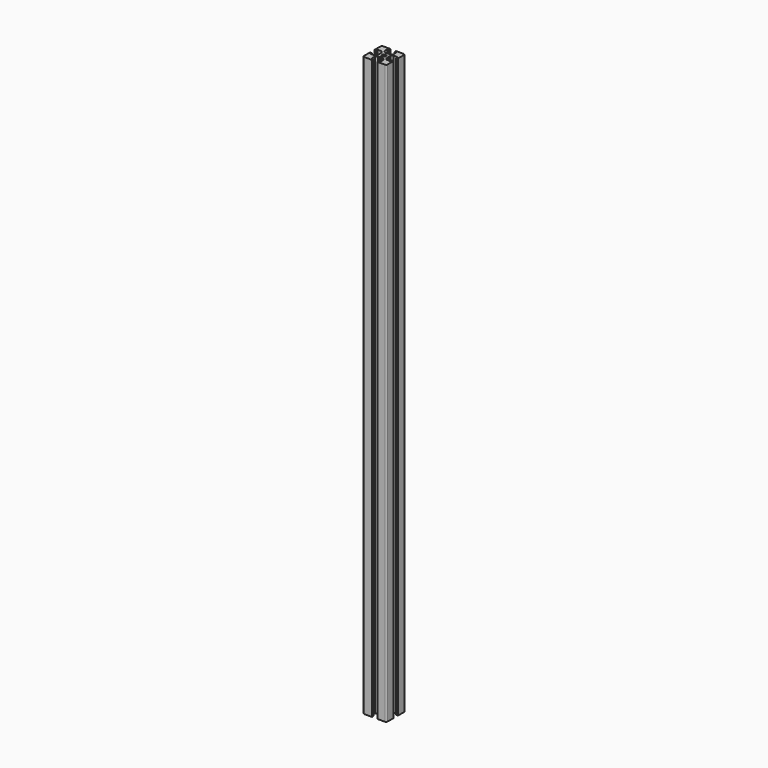
from build123d import *

# Parameters (mm, degrees)
F0_R     = 1.25
F1_DEPTH = 185


with BuildPart() as f1:
    # F0 (on Top) → F1 (new body, symmetric)
    with BuildSketch(Plane.XY):
        with BuildLine():
            Line((1.7, -7.5), (6.5, -7.5))
            ThreePointArc((6.5, -7.5), (7.207107, -7.207107), (7.5, -6.5))
            Line((7.5, -6.5), (7.5, -1.7))
            Line((7.5, -1.7), (6.4, -1.7))
            Line((6.4, -1.7), (6.4, -2.85))
            Line((6.4, -2.85), (3.8, -2.85))
            Line((3.8, -2.85), (2.8, -1.7))
            Line((2.8, -1.7), (2.8, -0.519615))
            Line((2.8, -0.519615), (2.5, 0))
            Line((2.5, 0), (2.8, 0.519615))
            Line((2.8, 0.519615), (2.8, 1.7))
            Line((2.8, 1.7), (3.8, 2.85))
            Line((3.8, 2.85), (6.4, 2.85))
            Line((6.4, 2.85), (6.4, 1.7))
            Line((6.4, 1.7), (7.5, 1.7))
            Line((7.5, 1.7), (7.5, 6.5))
            ThreePointArc((7.5, 6.5), (7.207107, 7.207107), (6.5, 7.5))
            Line((6.5, 7.5), (1.7, 7.5))
            Line((1.7, 7.5), (1.7, 6.4))
            Line((1.7, 6.4), (2.85, 6.4))
            Line((2.85, 6.4), (2.85, 3.8))
            Line((2.85, 3.8), (1.7, 2.8))
            Line((1.7, 2.8), (0.519615, 2.8))
            Line((0.519615, 2.8), (0, 2.5))
            Line((0, 2.5), (-0.519615, 2.8))
            Line((-0.519615, 2.8), (-1.7, 2.8))
            Line((-1.7, 2.8), (-2.85, 3.8))
            Line((-2.85, 3.8), (-2.85, 6.4))
            Line((-2.85, 6.4), (-1.7, 6.4))
            Line((-1.7, 6.4), (-1.7, 7.5))
            Line((-1.7, 7.5), (-6.5, 7.5))
            ThreePointArc((-6.5, 7.5), (-7.207107, 7.207107), (-7.5, 6.5))
            Line((-7.5, 6.5), (-7.5, 1.7))
            Line((-7.5, 1.7), (-6.4, 1.7))
            Line((-6.4, 1.7), (-6.4, 2.85))
            Line((-6.4, 2.85), (-3.8, 2.85))
            Line((-3.8, 2.85), (-2.8, 1.7))
            Line((-2.8, 1.7), (-2.8, 0.519615))
            Line((-2.8, 0.519615), (-2.5, 0))
            Line((-2.5, 0), (-2.8, -0.519615))
            Line((-2.8, -0.519615), (-2.8, -1.7))
            Line((-2.8, -1.7), (-3.8, -2.85))
            Line((-3.8, -2.85), (-6.4, -2.85))
            Line((-6.4, -2.85), (-6.4, -1.7))
            Line((-6.4, -1.7), (-7.5, -1.7))
            Line((-7.5, -1.7), (-7.5, -6.5))
            ThreePointArc((-7.5, -6.5), (-7.207107, -7.207107), (-6.5, -7.5))
            Line((-6.5, -7.5), (-1.7, -7.5))
            Line((-1.7, -7.5), (-1.7, -6.4))
            Line((-1.7, -6.4), (-2.85, -6.4))
            Line((-2.85, -6.4), (-2.85, -3.8))
            Line((-2.85, -3.8), (-1.7, -2.8))
            Line((-1.7, -2.8), (-0.519615, -2.8))
            Line((-0.519615, -2.8), (0, -2.5))
            Line((0, -2.5), (0.519615, -2.8))
            Line((0.519615, -2.8), (1.7, -2.8))
            Line((1.7, -2.8), (2.85, -3.8))
            Line((2.85, -3.8), (2.85, -6.4))
            Line((2.85, -6.4), (1.7, -6.4))
            Line((1.7, -6.4), (1.7, -7.5))
        make_face()
        Circle(F0_R, mode=Mode.SUBTRACT)
    extrude(amount=F1_DEPTH, both=True)


solid = f1.part
